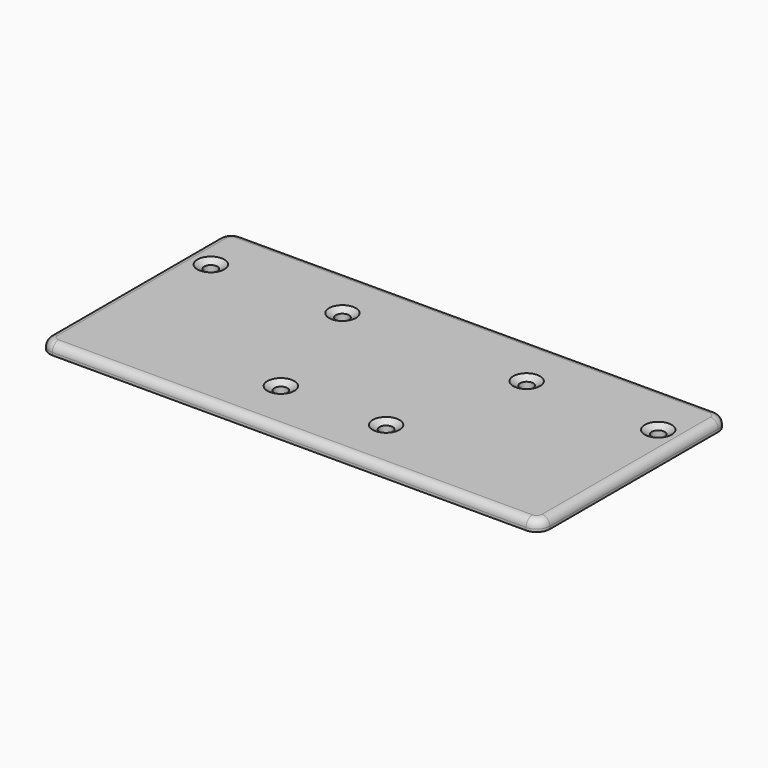
from build123d import *

# Parameters (mm, degrees)
F1_DEPTH   = 4
F2_R       = 5
F3_R       = 5
F4_R       = 5
F5_R       = 5
F6_R       = 3
F7_SIZE2   = 2.5980762114
F7_SIZE    = 1.5
F7_2_SIZE2 = 2.5980762114
F7_2_SIZE  = 1.5
F7_3_SIZE2 = 2.5980762114
F7_3_SIZE  = 1.5
F7_4_SIZE2 = 2.5980762114
F7_4_SIZE  = 1.5
F7_5_SIZE2 = 2.5980762114
F7_5_SIZE  = 1.5
F7_6_SIZE2 = 2.5980762114
F7_6_SIZE  = 1.5


with BuildPart() as f1:
    # F0 (on Top) → F1 (new body)
    with BuildSketch(Plane.XY):
        with BuildLine():
            Line((84.0636147559, 40.0707364747), (-105.9363852441, 40.0707364747))
            Line((-105.9363852441, 40.0707364747), (-105.9363852441, 19.0707364747))
            Line((-105.9363852441, 19.0707364747), (-98.4363852441, 19.0707364747))
            ThreePointArc((-98.4363852441, 19.0707364747), (-95.9363852441, 21.5707364747), (-93.4363852441, 19.0707364747))
            Line((-93.4363852441, 19.0707364747), (-48.4363852441, 19.0707364747))
            ThreePointArc((-48.4363852441, 19.0707364747), (-45.9363852441, 21.5707364747), (-43.4363852441, 19.0707364747))
            Line((-43.4363852441, 19.0707364747), (21.5636147559, 19.0707364747))
            ThreePointArc((21.5636147559, 19.0707364747), (24.0636147559, 21.5707364747), (26.5636147559, 19.0707364747))
            Line((26.5636147559, 19.0707364747), (71.5636147559, 19.0707364747))
            ThreePointArc((71.5636147559, 19.0707364747), (74.0636147559, 21.5707364747), (76.5636147559, 19.0707364747))
            Line((76.5636147559, 19.0707364747), (84.0636147559, 19.0707364747))
            Line((84.0636147559, 19.0707364747), (84.0636147559, 40.0707364747))
        make_face()
        with BuildLine():
            Line((-98.4363852441, 19.0707364747), (-105.9363852441, 19.0707364747))
            Line((-105.9363852441, 19.0707364747), (-105.9363852441, -28.9292635253))
            Line((-105.9363852441, -28.9292635253), (-33.4363852441, -28.9292635253))
            ThreePointArc((-33.4363852441, -28.9292635253), (-30.9363852441, -26.4292635253), (-28.4363852441, -28.9292635253))
            Line((-28.4363852441, -28.9292635253), (6.5636147559, -28.9292635253))
            ThreePointArc((6.5636147559, -28.9292635253), (9.0636147559, -26.4292635253), (11.5636147559, -28.9292635253))
            Line((11.5636147559, -28.9292635253), (84.0636147559, -28.9292635253))
            Line((84.0636147559, -28.9292635253), (84.0636147559, 19.0707364747))
            Line((84.0636147559, 19.0707364747), (76.5636147559, 19.0707364747))
            ThreePointArc((76.5636147559, 19.0707364747), (74.0636147559, 16.5707364747), (71.5636147559, 19.0707364747))
            Line((71.5636147559, 19.0707364747), (26.5636147559, 19.0707364747))
            ThreePointArc((26.5636147559, 19.0707364747), (24.0636147559, 16.5707364747), (21.5636147559, 19.0707364747))
            Line((21.5636147559, 19.0707364747), (-43.4363852441, 19.0707364747))
            ThreePointArc((-43.4363852441, 19.0707364747), (-45.9363852441, 16.5707364747), (-48.4363852441, 19.0707364747))
            Line((-48.4363852441, 19.0707364747), (-93.4363852441, 19.0707364747))
            ThreePointArc((-93.4363852441, 19.0707364747), (-95.9363852441, 16.5707364747), (-98.4363852441, 19.0707364747))
        make_face()
        with BuildLine():
            Line((-33.4363852441, -28.9292635253), (-105.9363852441, -28.9292635253))
            Line((-105.9363852441, -28.9292635253), (-105.9363852441, -49.9292635253))
            Line((-105.9363852441, -49.9292635253), (84.0636147559, -49.9292635253))
            Line((84.0636147559, -49.9292635253), (84.0636147559, -28.9292635253))
            Line((84.0636147559, -28.9292635253), (11.5636147559, -28.9292635253))
            ThreePointArc((11.5636147559, -28.9292635253), (9.0636147559, -31.4292635253), (6.5636147559, -28.9292635253))
            Line((6.5636147559, -28.9292635253), (-28.4363852441, -28.9292635253))
            ThreePointArc((-28.4363852441, -28.9292635253), (-30.9363852441, -31.4292635253), (-33.4363852441, -28.9292635253))
        make_face()
    extrude(amount=F1_DEPTH)

    # F2
    f2_edges = [f1.edges().sort_by_distance(p)[0] for p in [
        (-105.936385, 40.070736, 2),
    ]]
    fillet(f2_edges, radius=F2_R)

    # F3
    f3_edges = [f1.edges().sort_by_distance(p)[0] for p in [
        (84.063615, 40.070736, 2),
    ]]
    fillet(f3_edges, radius=F3_R)

    # F4
    f4_edges = [f1.edges().sort_by_distance(p)[0] for p in [
        (84.063615, -49.929264, 2),
    ]]
    fillet(f4_edges, radius=F4_R)

    # F5
    f5_edges = [f1.edges().sort_by_distance(p)[0] for p in [
        (-105.936385, -49.929264, 2),
    ]]
    fillet(f5_edges, radius=F5_R)

    # F6
    f6_edges = [f1.edges().sort_by_distance(p)[0] for p in [
        (-10.936385, -49.929264, 4),
    ]]
    fillet(f6_edges, radius=F6_R)

    # F7
    f7_edges = [f1.edges().sort_by_distance(p)[0] for p in [
        (-98.436385, 19.070736, 4),
    ]]
    f7_side = f1.faces().sort_by_distance((-98.436385, 19.070736, 2))[0]
    chamfer(f7_edges, length=F7_SIZE, length2=F7_SIZE2, reference=f7_side)

    # F7#2
    f7_2_edges = [f1.edges().sort_by_distance(p)[0] for p in [
        (-48.436385, 19.070736, 4),
    ]]
    f7_2_side = f1.faces().sort_by_distance((-48.436385, 19.070736, 2))[0]
    chamfer(f7_2_edges, length=F7_2_SIZE, length2=F7_2_SIZE2, reference=f7_2_side)

    # F7#3
    f7_3_edges = [f1.edges().sort_by_distance(p)[0] for p in [
        (21.563615, 19.070736, 4),
    ]]
    f7_3_side = f1.faces().sort_by_distance((21.563615, 19.070736, 2))[0]
    chamfer(f7_3_edges, length=F7_3_SIZE, length2=F7_3_SIZE2, reference=f7_3_side)

    # F7#4
    f7_4_edges = [f1.edges().sort_by_distance(p)[0] for p in [
        (71.563615, 19.070736, 4),
    ]]
    f7_4_side = f1.faces().sort_by_distance((71.563615, 19.070736, 2))[0]
    chamfer(f7_4_edges, length=F7_4_SIZE, length2=F7_4_SIZE2, reference=f7_4_side)

    # F7#5
    f7_5_edges = [f1.edges().sort_by_distance(p)[0] for p in [
        (6.563615, -28.929264, 4),
    ]]
    f7_5_side = f1.faces().sort_by_distance((6.563615, -28.929264, 2))[0]
    chamfer(f7_5_edges, length=F7_5_SIZE, length2=F7_5_SIZE2, reference=f7_5_side)

    # F7#6
    f7_6_edges = [f1.edges().sort_by_distance(p)[0] for p in [
        (-33.436385, -28.929264, 4),
    ]]
    f7_6_side = f1.faces().sort_by_distance((-33.436385, -28.929264, 2))[0]
    chamfer(f7_6_edges, length=F7_6_SIZE, length2=F7_6_SIZE2, reference=f7_6_side)


solid = f1.part
